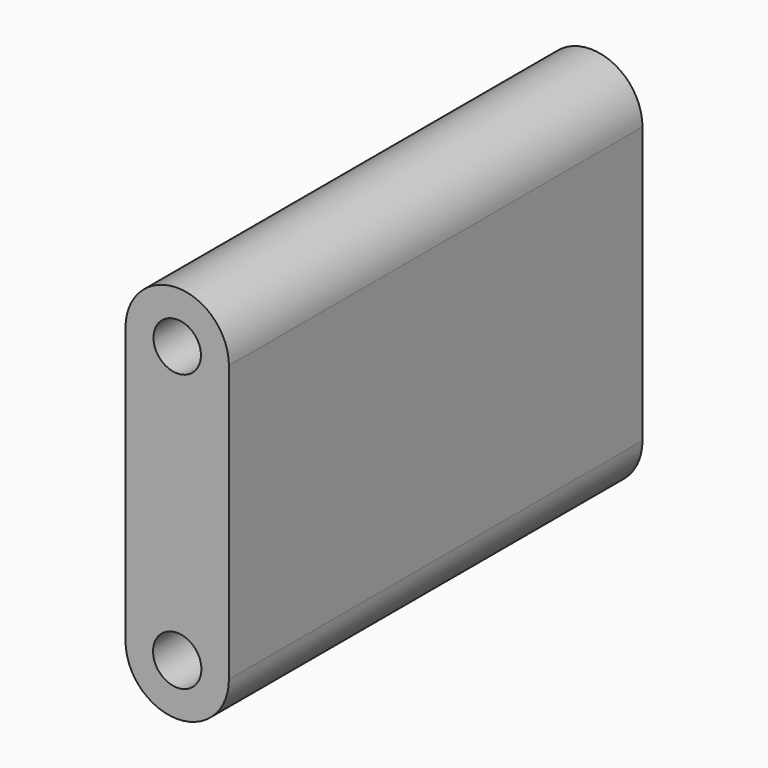
from build123d import *

# Parameters (mm, degrees)
F0_R     = 5.827895928
F1_DEPTH = 127


with BuildPart() as f1:
    # F0 (on Front) → F1 (new body)
    with BuildSketch(Plane.XZ):
        with BuildLine():
            ThreePointArc((-5.4695284326, 0), (0.470370132, 5.9398985646), (6.4102686966, 0))
            Line((6.4102686966, 0), (13.170370132, 0))
            Line((13.170370132, 0), (13.170370132, 67.8557001903))
            ThreePointArc((13.170370132, 67.8557001903), (0.4559546677, 80.5557083531), (-12.229629868, 67.8269019314))
            Line((-12.229629868, 67.8269019314), (-12.229629868, 0))
            Line((-12.229629868, 0), (-5.4695284326, 0))
        make_face()
        with Locations((0.4703538064, 67.8557001903)):
            Circle(F0_R, mode=Mode.SUBTRACT)
        with BuildLine():
            Line((13.170370132, 0), (6.4102686966, 0))
            ThreePointArc((6.4102686966, 0), (0.470370132, -5.9398985646), (-5.4695284326, 0))
            Line((-5.4695284326, 0), (-12.229629868, 0))
            ThreePointArc((-12.229629868, 0), (0.470370132, -12.7), (13.170370132, 0))
        make_face()
    extrude(amount=F1_DEPTH)


solid = f1.part
